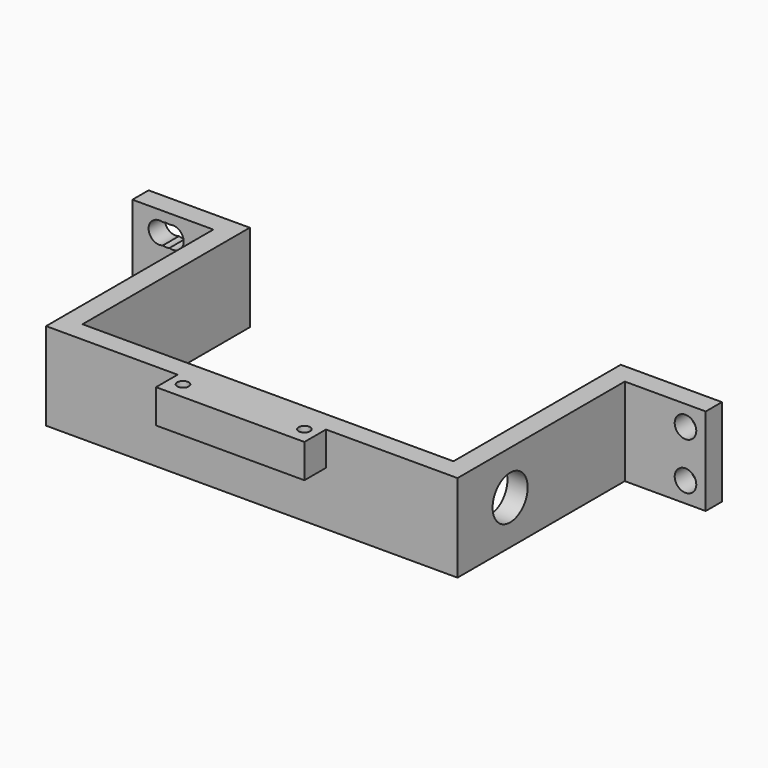
from build123d import *

# Parameters (mm, degrees)
CYLINDER051_R             = 1.6
CYLINDER051_DEPTH         = 28
CYLINDER051_ROLL_ANGLE    = 90
CYLINDER050_R             = 1.6
CYLINDER050_DEPTH         = 28
CYLINDER050_ROLL_ANGLE    = 90
CYLINDER049_R             = 1.6
CYLINDER049_DEPTH         = 28
CYLINDER049_ROLL_ANGLE    = 90
CYLINDER048_R             = 1.6
CYLINDER048_DEPTH         = 28
CYLINDER048_ROLL_ANGLE    = 90
CYLINDER044_R             = 1.6
CYLINDER044_DEPTH         = 28
CYLINDER044_ROLL_ANGLE    = 90
CYLINDER043_R             = 1.6
CYLINDER043_DEPTH         = 28
CYLINDER043_ROLL_ANGLE    = 90
CYLINDER042_R             = 1.6
CYLINDER042_DEPTH         = 28
CYLINDER042_ROLL_ANGLE    = 90
CYLINDER041_R             = 1.6
CYLINDER041_DEPTH         = 28
CYLINDER041_ROLL_ANGLE    = 90
CYLINDER047_R             = 0.85
CYLINDER047_DEPTH         = 10
CYLINDER046_R             = 0.85
CYLINDER046_DEPTH         = 10
FUSION078_PLACEMENT_ANGLE = 90
BOX025_W                  = 22
BOX025_H                  = 4
BOX025_DEPTH              = 5
CYLINDER045_R             = 3.25
CYLINDER045_DEPTH         = 10
CYLINDER045_PITCH_ANGLE   = 90
BOX024_W                  = 55
BOX024_H                  = 31
BOX024_DEPTH              = 13
BOX021_W                  = 61
BOX021_H                  = 34
BOX021_DEPTH              = 13
BOX023_W                  = 12
BOX023_H                  = 3
BOX023_DEPTH              = 13
BOX022_W                  = 12
BOX022_H                  = 3
BOX022_DEPTH              = 13


with BuildPart() as cylinder067:
    # Cylinder051 → Cylinder051 (new body)
    with BuildSketch(Plane.XY):
        Circle(CYLINDER051_R)
    extrude(amount=CYLINDER051_DEPTH)


with BuildPart() as cylinder067_1:
    # Cylinder051 roll: moved
    add(cylinder067.part.rotate(Axis((0, 0, 0), (1, 0, 0)), CYLINDER051_ROLL_ANGLE))


with BuildPart() as cylinder067_2:
    # Cylinder051 placement: moved
    add(cylinder067_1.part.moved(Location((-23, 20, 36))))


with BuildPart() as fusion085:
    # Cylinder050 → Cylinder050 (new body)
    with BuildSketch(Plane.XY):
        Circle(CYLINDER050_R)
    extrude(amount=CYLINDER050_DEPTH)


with BuildPart() as fusion085_1:
    # Cylinder050 roll: moved
    add(fusion085.part.rotate(Axis((0, 0, 0), (1, 0, 0)), CYLINDER050_ROLL_ANGLE))


with BuildPart() as fusion085_2:
    # Cylinder050 placement: moved
    add(fusion085_1.part.moved(Location((-23, 20, 29))))

    # Fusion085: union Cylinder067
    add(cylinder067_2.part)


with BuildPart() as fusion085_3:
    # Fusion085 placement: moved
    add(fusion085_2.part.moved(Location((-1, 0, 0))))


with BuildPart() as cylinder063:
    # Cylinder049 → Cylinder049 (new body)
    with BuildSketch(Plane.XY):
        Circle(CYLINDER049_R)
    extrude(amount=CYLINDER049_DEPTH)


with BuildPart() as cylinder063_1:
    # Cylinder049 roll: moved
    add(cylinder063.part.rotate(Axis((0, 0, 0), (1, 0, 0)), CYLINDER049_ROLL_ANGLE))


with BuildPart() as cylinder063_2:
    # Cylinder049 placement: moved
    add(cylinder063_1.part.moved(Location((-23, 20, 36))))


with BuildPart() as fusion084:
    # Cylinder048 → Cylinder048 (new body)
    with BuildSketch(Plane.XY):
        Circle(CYLINDER048_R)
    extrude(amount=CYLINDER048_DEPTH)


with BuildPart() as fusion084_1:
    # Cylinder048 roll: moved
    add(fusion084.part.rotate(Axis((0, 0, 0), (1, 0, 0)), CYLINDER048_ROLL_ANGLE))


with BuildPart() as fusion084_2:
    # Cylinder048 placement: moved
    add(fusion084_1.part.moved(Location((-23, 20, 29))))

    # Fusion084: union Cylinder063
    add(cylinder063_2.part)


with BuildPart() as fusion084_3:
    # Fusion084 placement: moved
    add(fusion084_2.part.moved(Location((1, 0, 0))))


with BuildPart() as cylinder054:
    # Cylinder044 → Cylinder044 (new body)
    with BuildSketch(Plane.XY):
        Circle(CYLINDER044_R)
    extrude(amount=CYLINDER044_DEPTH)


with BuildPart() as cylinder054_1:
    # Cylinder044 roll: moved
    add(cylinder054.part.rotate(Axis((0, 0, 0), (1, 0, 0)), CYLINDER044_ROLL_ANGLE))


with BuildPart() as cylinder054_2:
    # Cylinder044 placement: moved
    add(cylinder054_1.part.moved(Location((-23, 20, 36))))


with BuildPart() as fusion080:
    # Cylinder043 → Cylinder043 (new body)
    with BuildSketch(Plane.XY):
        Circle(CYLINDER043_R)
    extrude(amount=CYLINDER043_DEPTH)


with BuildPart() as fusion080_1:
    # Cylinder043 roll: moved
    add(fusion080.part.rotate(Axis((0, 0, 0), (1, 0, 0)), CYLINDER043_ROLL_ANGLE))


with BuildPart() as fusion080_2:
    # Cylinder043 placement: moved
    add(fusion080_1.part.moved(Location((-23, 20, 29))))

    # Fusion080: union Cylinder054
    add(cylinder054_2.part)


with BuildPart() as cylinder052:
    # Cylinder042 → Cylinder042 (new body)
    with BuildSketch(Plane.XY):
        Circle(CYLINDER042_R)
    extrude(amount=CYLINDER042_DEPTH)


with BuildPart() as cylinder052_1:
    # Cylinder042 roll: moved
    add(cylinder052.part.rotate(Axis((0, 0, 0), (1, 0, 0)), CYLINDER042_ROLL_ANGLE))


with BuildPart() as cylinder052_2:
    # Cylinder042 placement: moved
    add(cylinder052_1.part.moved(Location((54, 20, 36))))


with BuildPart() as fusion081:
    # Cylinder041 → Cylinder041 (new body)
    with BuildSketch(Plane.XY):
        Circle(CYLINDER041_R)
    extrude(amount=CYLINDER041_DEPTH)


with BuildPart() as fusion081_1:
    # Cylinder041 roll: moved
    add(fusion081.part.rotate(Axis((0, 0, 0), (1, 0, 0)), CYLINDER041_ROLL_ANGLE))


with BuildPart() as fusion081_2:
    # Cylinder041 placement: moved
    add(fusion081_1.part.moved(Location((54, 20, 29))))

    # Fusion081: union Cylinder052
    add(cylinder052_2.part)


with BuildPart() as cylinder059:
    # Cylinder047 → Cylinder047 (new body)
    with BuildSketch(Plane(origin=(10.5, -9, 0), x_dir=(1, 0, 0), z_dir=(0, 0, 1))):
        Circle(CYLINDER047_R)
    extrude(amount=CYLINDER047_DEPTH)


with BuildPart() as fusion078:
    # Cylinder046 → Cylinder046 (new body)
    with BuildSketch(Plane(origin=(10.5, 9, 0), x_dir=(1, 0, 0), z_dir=(0, 0, 1))):
        Circle(CYLINDER046_R)
    extrude(amount=CYLINDER046_DEPTH)

    # Fusion078: union Cylinder059
    add(cylinder059.part)


with BuildPart() as fusion078_1:
    # Fusion078 placement: moved
    add(fusion078.part.moved(Location((14.5, -39, 31))).rotate(Axis((14.5, -39, 31), (0, 0, 1)), FUSION078_PLACEMENT_ANGLE))


with BuildPart() as cut039:
    # Box025 → Box025 (new body)
    with BuildSketch(Plane(origin=(3.5, -31, 34), x_dir=(1, 0, 0), z_dir=(0, 0, 1))):
        with Locations((11, 2)):
            Rectangle(BOX025_W, BOX025_H)
    extrude(amount=BOX025_DEPTH)

    # Cut039: cut Fusion078
    add(fusion078_1.part, mode=Mode.SUBTRACT)


with BuildPart() as cylinder055:
    # Cylinder045 → Cylinder045 (new body)
    with BuildSketch(Plane.XY):
        Circle(CYLINDER045_R)
    extrude(amount=CYLINDER045_DEPTH)


with BuildPart() as cylinder055_1:
    # Cylinder045 pitch: moved
    add(cylinder055.part.rotate(Axis((0, 0, 0), (0, 1, 0)), CYLINDER045_PITCH_ANGLE))


with BuildPart() as cylinder055_2:
    # Cylinder045 placement: moved
    add(cylinder055_1.part.moved(Location((36, -17.25, 32.5))))


with BuildPart() as cube023:
    # Box024 → Box024 (new body)
    with BuildSketch(Plane(origin=(-13, -24, 26), x_dir=(1, 0, 0), z_dir=(0, 0, 1))):
        with Locations((27.5, 15.5)):
            Rectangle(BOX024_W, BOX024_H)
    extrude(amount=BOX024_DEPTH)


with BuildPart() as fusion079:
    # Box021 → Box021 (new body)
    with BuildSketch(Plane(origin=(-16, -27, 26), x_dir=(1, 0, 0), z_dir=(0, 0, 1))):
        with Locations((30.5, 17)):
            Rectangle(BOX021_W, BOX021_H)
    extrude(amount=BOX021_DEPTH)

    # Cut037: cut Cube023
    add(cube023.part, mode=Mode.SUBTRACT)

    # Cut038: cut Cylinder055
    add(cylinder055_2.part, mode=Mode.SUBTRACT)

    # Fusion079: union Cut039
    add(cut039.part)


with BuildPart() as fusion082:
    # Box023 → Box023 (new body)
    with BuildSketch(Plane(origin=(-28, 4, 26), x_dir=(1, 0, 0), z_dir=(0, 0, 1))):
        with Locations((6, 1.5)):
            Rectangle(BOX023_W, BOX023_H)
    extrude(amount=BOX023_DEPTH)

    # Fusion082: union Fusion079
    add(fusion079.part)


with BuildPart() as switch_bracket001:
    # Box022 → Box022 (new body)
    with BuildSketch(Plane(origin=(45, 4, 26), x_dir=(1, 0, 0), z_dir=(0, 0, 1))):
        with Locations((6, 1.5)):
            Rectangle(BOX022_W, BOX022_H)
    extrude(amount=BOX022_DEPTH)

    # Fusion083: union Fusion082
    add(fusion082.part)

    # Cut040: cut Fusion081
    add(fusion081_2.part, mode=Mode.SUBTRACT)

    # Cut041: cut Fusion080
    add(fusion080_2.part, mode=Mode.SUBTRACT)

    # Cut042: cut Fusion084
    add(fusion084_3.part, mode=Mode.SUBTRACT)

    # Cut043: cut Fusion085
    add(fusion085_3.part, mode=Mode.SUBTRACT)


solid = switch_bracket001.part
